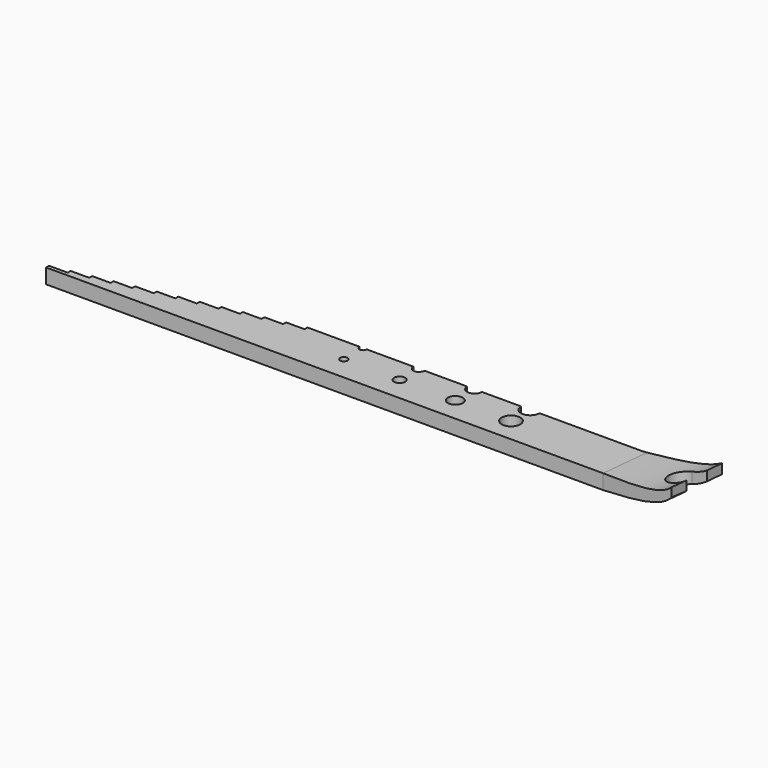
from build123d import *

# Parameters (mm, degrees)
F0_R     = 1
F0_R_2   = 1.5
F0_R_3   = 2
F0_R_4   = 2.5
F1_DEPTH = 4
F3_DEPTH = 8
F5_DEPTH = 25


with BuildPart() as f1:
    # F0 (on Top) → F1 (new body)
    with BuildSketch(Plane.XY):
        with BuildLine():
            Line((-52.0707386732, -14.8954221606), (-52.0707386732, -15.8954221606))
            Line((-52.0707386732, -15.8954221606), (-57.0707386732, -15.8954221606))
            Line((-57.0707386732, -15.8954221606), (-57.0707386732, -16.8954221606))
            Line((-57.0707386732, -16.8954221606), (-62.0707386732, -16.8954221606))
            Line((-62.0707386732, -16.8954221606), (-62.0707386732, -17.8954221606))
            Line((-62.0707386732, -17.8954221606), (-67.0707386732, -17.8954221606))
            Line((-67.0707386732, -17.8954221606), (-67.0707386732, -18.8954221606))
            Line((-67.0707386732, -18.8954221606), (-72.0707386732, -18.8954221606))
            Line((-72.0707386732, -18.8954221606), (-72.0707386732, -19.8954221606))
            Line((-72.0707386732, -19.8954221606), (-77.0707386732, -19.8954221606))
            Line((-77.0707386732, -19.8954221606), (-77.0707386732, -20.8954221606))
            Line((-77.0707386732, -20.8954221606), (-82.0707386732, -20.8954221606))
            Line((-82.0707386732, -20.8954221606), (-82.0707386732, -21.8954221606))
            Line((-82.0707386732, -21.8954221606), (-87.0707386732, -21.8954221606))
            Line((-87.0707386732, -21.8954221606), (-87.0707386732, -22.8954221606))
            Line((-87.0707386732, -22.8954221606), (-92.0707386732, -22.8954221606))
            Line((-92.0707386732, -22.8954221606), (-92.0707386732, -23.8954221606))
            Line((-92.0707386732, -23.8954221606), (-97.0707386732, -23.8954221606))
            Line((-97.0707386732, -23.8954221606), (-97.0707386732, -24.8954221606))
            Line((-97.0707386732, -24.8954221606), (-102.0707386732, -24.8954221606))
            Line((-102.0707386732, -24.8954221606), (-102.0707386732, -25.8954221606))
            Line((-102.0707386732, -25.8954221606), (47.9292613268, -25.8954221606))
            Line((47.9292613268, -25.8954221606), (47.9292613268, -12.8954221606))
            Line((47.9292613268, -12.8954221606), (20.4292613268, -12.8954221606))
            ThreePointArc((20.4292613268, -12.8954221606), (17.9292613268, -15.3954221606), (15.4292613268, -12.8954221606))
            Line((15.4292613268, -12.8954221606), (4.9292613268, -12.8954221606))
            ThreePointArc((4.9292613268, -12.8954221606), (2.9292613268, -14.8954221606), (0.9292613268, -12.8954221606))
            Line((0.9292613268, -12.8954221606), (-10.5707386732, -12.8954221606))
            ThreePointArc((-10.5707386732, -12.8954221606), (-12.0707386732, -14.3954221606), (-13.5707386732, -12.8954221606))
            Line((-13.5707386732, -12.8954221606), (-26.0707386732, -12.8954221606))
            ThreePointArc((-26.0707386732, -12.8954221606), (-27.0707386732, -13.8954221606), (-28.0707386732, -12.8954221606))
            Line((-28.0707386732, -12.8954221606), (-42.0707386732, -12.8954221606))
            Line((-42.0707386732, -12.8954221606), (-42.0707386732, -13.8954221606))
            Line((-42.0707386732, -13.8954221606), (-47.0707386732, -13.8954221606))
            Line((-47.0707386732, -13.8954221606), (-47.0707386732, -14.8954221606))
            Line((-47.0707386732, -14.8954221606), (-52.0707386732, -14.8954221606))
        make_face()
        with Locations((-27.0707386732, -19.3954221606)):
            Circle(F0_R, mode=Mode.SUBTRACT)
        with Locations((-12.0707386732, -19.3954221606)):
            Circle(F0_R_2, mode=Mode.SUBTRACT)
        with Locations((2.9292613268, -19.3954221606)):
            Circle(F0_R_3, mode=Mode.SUBTRACT)
        with Locations((17.9292613268, -19.3954221606)):
            Circle(F0_R_4, mode=Mode.SUBTRACT)
    extrude(amount=F1_DEPTH)

    # F2 (on face) → F3 (join)
    with BuildSketch(Plane(origin=(0, 0, 0), x_dir=(1, 0, 0), z_dir=(0, 0, -1))):
        with BuildLine():
            Line((47.9292613268, 25.8954221606), (47.9292613268, 12.8954221606))
            Line((47.9292613268, 12.8954221606), (67.9292613268, 10.8954221606))
            Line((67.9292613268, 10.8954221606), (67.9292613268, 15.8954221606))
            Line((67.9292613268, 15.8954221606), (63.9292613268, 15.8954221606))
            ThreePointArc((63.9292613268, 15.8954221606), (60.4292613268, 19.3954221606), (63.9292613268, 22.8954221606))
            Line((63.9292613268, 22.8954221606), (67.9292613268, 22.8954221606))
            Line((67.9292613268, 22.8954221606), (67.9292613268, 27.8954221606))
            Line((67.9292613268, 27.8954221606), (47.9292613268, 25.8954221606))
        make_face()
    extrude(amount=-F3_DEPTH)

    # F4 (on face) → F5 (cut)
    with BuildSketch(Plane(origin=(-2.0893560424, -20.8935604237, 0), x_dir=(0.9950371902, -0.099503719, 0), z_dir=(-0.099503719, -0.9950371902, 0))):
        with BuildLine():
            Line((47.7105565369, 4), (50.2680883301, 4))
            Line((50.2680883301, 4), (50.2680883301, 8))
            Line((50.2680883301, 8), (70.3678395723, 8))
            add(Edge.make_bspline(
                [(70.3678395723, 8), (72.5567347198, 10.1579266461), (72.4264311984, 13.587186432), (72.296127677, 17.0164462179)],
                knots=[0.598533387, 0.598533387, 0.598533387, 0.598533387, 1, 1, 1, 1], degree=3))
            add(Edge.make_bspline(
                [(70.3678395723, 5.5720340461), (72.8712183365, 8.3489220533), (72.5836730067, 12.6826841356), (72.296127677, 17.0164462179)],
                knots=[0.5727584581, 0.5727584581, 0.5727584581, 0.5727584581, 1, 1, 1, 1], degree=3))
            Line((70.3678395723, 5.5720340461), (70.3678395723, 0))
            Line((70.3678395723, 0), (50.2680883301, 0))
            Line((50.2680883301, 0), (50.2680883301, -3.928697668))
            Line((50.2680883301, -3.928697668), (74.866913259, -3.928697668))
            Line((74.866913259, -3.928697668), (74.866913259, 19.5322930813))
            Line((74.866913259, 19.5322930813), (50.2680883301, 19.5322930813))
            Line((50.2680883301, 19.5322930813), (47.7105565369, 19.5322930813))
            Line((47.7105565369, 19.5322930813), (47.7105565369, 4))
        make_face()
        with BuildLine():
            Line((50.2680883301, 8), (50.2680883301, 4))
            add(Edge.make_bspline(
                [(50.2680883301, 4), (58.6862880108, 4.3914090203), (67.1044876915, 4.7828180407), (70.3678395723, 8)],
                knots=[0, 0, 0, 0, 0.598533387, 0.598533387, 0.598533387, 0.598533387], degree=3))
            Line((70.3678395723, 8), (50.2680883301, 8))
        make_face()
        with BuildLine():
            add(Edge.make_bspline(
                [(50.2680883301, 0), (58.6399537153, 0.9246740387), (67.0118191006, 1.8493480774), (70.3678395723, 5.5720340461)],
                knots=[0, 0, 0, 0, 0.5727584581, 0.5727584581, 0.5727584581, 0.5727584581], degree=3))
            Line((50.2680883301, 0), (70.3678395723, 0))
            Line((70.3678395723, 0), (70.3678395723, 5.5720340461))
        make_face()
    extrude(amount=-F5_DEPTH, mode=Mode.SUBTRACT)


solid = f1.part
